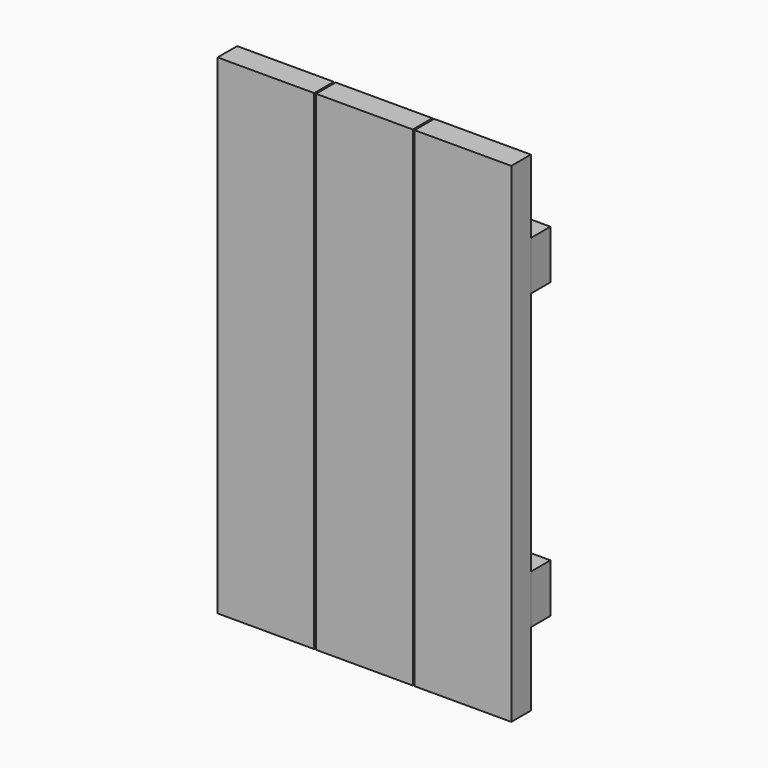
from build123d import *

# Parameters (mm, degrees)
F0_W     = 10.033
F0_H     = 50.8
F1_DEPTH = 2.54
F2_W     = 30.48
F2_H     = 5.08
F3_DEPTH = 2.54


with BuildPart() as f1:
    # F0 (on Front) → F1 (new body)
    with BuildSketch(Plane.XZ):
        with Locations((5.0165, 25.4)):
            Rectangle(F0_W, F0_H)
        with Locations((25.4635, 25.4)):
            Rectangle(F0_W, F0_H)
        with Locations((15.24, 25.4)):
            Rectangle(F0_W, F0_H)
    extrude(amount=F1_DEPTH)


with BuildPart() as f3:
    # F2 (on Front) → F3 (new body)
    with BuildSketch(Plane.XZ):
        with Locations((15.24, 40.64)):
            Rectangle(F2_W, F2_H)
        with Locations((15.24, 10.16)):
            Rectangle(F2_W, F2_H)
    extrude(amount=-F3_DEPTH)


solid = Compound([f1.part, f3.part])
